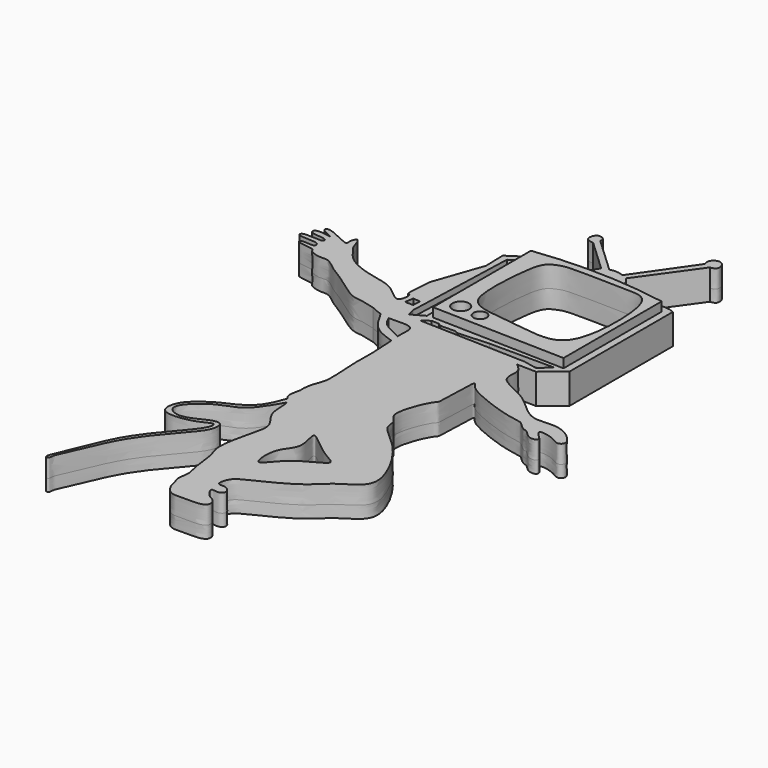
from build123d import *

# Parameters (mm, degrees)
F1_DEPTH = 2
F2_DEPTH = 2
F0_R     = 1.3638080713
F0_R_2   = 1.0885219465
F3_DEPTH = 3
F4_DEPTH = 3.5
F6_DEPTH = 1
F8_DEPTH = 10


with BuildPart() as f1:
    # F0 (on Top) → F1 (new body)
    with BuildSketch(Plane.XY):
        with BuildLine():
            add(Edge.make_bspline(
                [(-7.1354678192, 40.3565093875), (-7.2326651557, 42.2031832653), (-6.207177074, 43.8437295275), (-6.1452840422, 46.3712135886), (-6.5612317654, 52.1394806623), (-6.3160675766, 54.0724772888), (-6.5226867073, 57.2435823902), (-6.6151793179, 58.4987925402)],
                knots=[0, 0, 0, 0, 0.1191439816, 0.2162534794, 0.3620796658, 0.4619095428, 0.5675778495, 0.5675778495, 0.5675778495, 0.5675778495], degree=3))
            add(Edge.make_bspline(
                [(-6.9685436344, 37.4818611882), (-7.1212633751, 37.6680733087), (-7.6407128185, 38.3602584288), (-7.3095466353, 39.5094952422), (-7.1354678192, 40.3565093875)],
                knots=[0.9703624097, 0.9703624097, 0.9703624097, 0.9703624097, 0.9782686111, 1, 1, 1, 1], degree=3))
            add(Edge.make_bspline(
                [(-6.3658026047, 36.5832000971), (-6.5070253081, 36.9506717703), (-6.7520076757, 37.2178375601), (-6.9685436344, 37.4818611882)],
                knots=[0.9591524842, 0.9591524842, 0.9591524842, 0.9591524842, 0.9703624097, 0.9703624097, 0.9703624097, 0.9703624097], degree=3))
            add(Edge.make_bspline(
                [(25.3040157259, 49.1673052311), (25.3609576921, 48.9745445185), (25.5059619779, 48.4836740766), (23.8533953905, 48.2943731209), (22.8071007022, 49.8706098058), (22.1388532774, 49.6582198089), (20.8391300186, 51.0140374765), (20.380538297, 51.2078512124), (17.3739305236, 51.6174359876), (11.7960777898, 53.725265762), (9.7289768134, 55.0547233237), (8.810282643, 56.9827728013), (9.1353646448, 48.6192994646), (8.2807385739, 48.8303194826), (5.5798745158, 42.3963358142), (8.0602895936, 41.2343342379), (7.6320738321, 38.9344402064), (12.3435682454, 36.0066489429), (16.5116677586, 28.915642797), (16.5856670441, 24.8669218778), (12.2749156344, 22.8632612658), (9.9306130926, 19.7380132654), (3.3302178825, 16.6137942268), (1.1176657479, 15.4716956377), (0.6338871159, 12.9475452586), (2.2314935485, 13.5030828248), (3.5415030331, 12.1543768549), (2.3977932431, 11.2330050519), (0.7861434835, 11.9029481657), (2.0672435698, 9.7284147539), (3.4298972835, 9.4871243615), (3.9482767872, 7.2532681499), (-0.1472766878, 7.4394950211), (-2.4251364897, 7.2183975955), (-3.6344739914, 9.1574774669), (-3.63946591, 10.1831008699), (-4.3095546998, 11.1318107465), (-3.6708672887, 13.2777710958), (-4.4711650933, 15.1182044647), (-4.6748764284, 19.2665055362), (-5.8715366012, 21.1455197913), (-4.6510837453, 26.8551145985), (-3.596139614, 30.3316946749), (-6.536271853, 32.8270473337), (-6.0268914578, 35.7013288167), (-6.3658026047, 36.5832000971)],
                knots=[0, 0, 0, 0, 0.0103332096, 0.0263763728, 0.0451097148, 0.0561918676, 0.0749252097, 0.0851826715, 0.1091987082, 0.1451356838, 0.1682000267, 0.179736416, 0.2168474864, 0.2302762601, 0.2652096702, 0.285696439, 0.3043643433, 0.3369942067, 0.3784777882, 0.404839528, 0.4338208117, 0.4631249675, 0.5013825481, 0.5243902859, 0.5429475137, 0.5583715671, 0.575437612, 0.5901653974, 0.6047167699, 0.6230759582, 0.6404994932, 0.6569792016, 0.6836228951, 0.7057522493, 0.7256333863, 0.7399665668, 0.7545291595, 0.7748572465, 0.7956278148, 0.8240622854, 0.8455618465, 0.8795415356, 0.9061747589, 0.9322505159, 0.9591524842, 0.9591524842, 0.9591524842, 0.9591524842], degree=3))
            add(Edge.make_bspline(
                [(10.1986071095, 63.448973), (10.7440614624, 62.9947578896), (11.8867338951, 62.0432225644), (10.7619800337, 58.8191593509), (16.7600909002, 57.3360209152), (20.6577859364, 52.052906036), (25.5396012528, 53.9430952092), (29.4706051188, 50.4105178748), (27.9867565666, 49.1929561659), (26.8287715394, 50.3265000672), (23.4272030037, 50.994713023), (24.7122379356, 49.7435051536), (25.3040157259, 49.1673052311)],
                knots=[0, 0, 0, 0, 0.0830356038, 0.1739513029, 0.3094247435, 0.4545272246, 0.5810038485, 0.6999607928, 0.75789192, 0.8333860401, 0.9232717815, 1, 1, 1, 1], degree=3))
            Line((10.1986071095, 63.448973), (13.4022710845, 63.3885264397))
            Line((13.4022710845, 63.3885264397), (16.7271435208, 66.1085098982))
            Line((16.7271435208, 66.1085098982), (16.7271435208, 87.4748796777))
            Line((16.7271435208, 87.4748796777), (16.4150890336, 87.5852475486))
            Line((16.4150890336, 87.5852475486), (15.9320067614, 87.7561047673))
            Line((15.9320067614, 87.7561047673), (7.188806776, 88.568277657))
            ThreePointArc((7.188806776, 88.568277657), (6.9193838363, 89.8922672052), (6.1213923618, 90.9825637937))
            Line((6.1213923618, 90.9825637937), (12.6783652231, 100.1568734646))
            add(Edge.make_bspline(
                [(11.5601215512, 100.4872471094), (11.48014233, 100.8688994676), (11.3171480681, 101.6466907931), (12.5713477942, 102.4909716283), (13.684924326, 101.6989082025), (13.7480972307, 100.3065166439), (13.0248926891, 100.2053486634), (12.6783652231, 100.1568734646)],
                knots=[0, 0, 0, 0, 0.2005336264, 0.4086790287, 0.6149316071, 0.8154923445, 1, 1, 1, 1], degree=3))
            Line((11.5601215512, 100.4872471094), (5.2373982035, 91.422393918))
            ThreePointArc((5.2373982035, 91.422393918), (4.0985405405, 91.6980925857), (2.9325550422, 91.5819704533))
            Line((2.9325550422, 91.5819704533), (-2.9739309102, 97.1082821488))
            add(Edge.make_bspline(
                [(-3.3629485406, 96.1196795106), (-3.8358157073, 96.1953040771), (-4.7058936761, 96.3344536603), (-4.7244038955, 97.4098667937), (-4.1555150968, 98.3660640115), (-2.8978749824, 97.8576245685), (-2.9504806386, 97.3393263792), (-2.9739309102, 97.1082821488)],
                knots=[0, 0, 0, 0, 0.2295074393, 0.4222948446, 0.6220007171, 0.8314974754, 1, 1, 1, 1], degree=3))
            Line((-3.3629485406, 96.1196795106), (1.9245042931, 91.1694616079))
            ThreePointArc((1.9245042931, 91.1694616079), (1.1858495698, 90.0207150438), (0.6810335908, 88.7517035007))
            Line((0.6810335908, 88.7517035007), (-6.8488726392, 88.2681459188))
            Line((-6.8488726392, 88.2681459188), (-10.2364453664, 86.0479101539))
            Line((-10.2364453664, 86.0479101539), (-10.1647945121, 82.4655219913))
            Line((-10.1647945121, 82.4655219913), (-12.9481125623, 74.4450315833))
            add(Edge.make_bspline(
                [(-14.2605666477, 64.2533394543), (-14.9865522271, 64.451758474), (-16.4119143709, 64.8790642733), (-18.3340661508, 64.8663797901), (-21.0434883518, 66.9247370343), (-24.2661649787, 69.1154275388), (-25.1425717999, 69.5053961459), (-27.0200491125, 71.2775724819), (-28.4915032804, 70.8128227576), (-30.4857333585, 71.5701095641), (-30.2508720115, 72.3320480191), (-33.2618646159, 72.2757214421), (-33.3783611299, 73.331487493), (-30.6565192277, 72.6519054345), (-31.0024898971, 73.8077745833), (-31.8834594908, 73.9649073074), (-33.4853400668, 73.9085032925), (-34.5853324214, 74.1950971851), (-34.2264228775, 75.0879957674), (-30.7626916246, 74.3965018175), (-30.8525498254, 75.302568909), (-31.8260032134, 75.5065607616), (-33.1685986357, 75.481752421), (-33.8730092521, 76.0437144184), (-33.1944156667, 76.8402265077), (-29.2492633584, 75.7774635286), (-33.1912449723, 77.0983473882), (-32.1837970821, 78.2875806699), (-27.7292252932, 75.3997559768), (-28.3305100978, 76.9818210995), (-27.4897856338, 78.5062213237), (-26.8597894898, 75.6544216169), (-26.2846618725, 75.3410060065), (-24.8886265799, 72.8130535965), (-20.5598027943, 71.1887764812), (-17.3819872633, 70.7182436683), (-15.3844301741, 69.7043830634), (-12.8106192135, 67.0303629163), (-12.5726996025, 70.271923142), (-13.4961332763, 69.6218248348), (-13.0466145476, 72.3931297854), (-12.9481125623, 74.4450315833)],
                knots=[0, 0, 0, 0, 0.0299589513, 0.0569766283, 0.0944710002, 0.1337486105, 0.1543802008, 0.1846496904, 0.2100456975, 0.2371140122, 0.2505479126, 0.2833158509, 0.2957677115, 0.3253738504, 0.3405912309, 0.3591070734, 0.3854981966, 0.4047213959, 0.4188036751, 0.4546149563, 0.4669767709, 0.486201145, 0.5101929139, 0.526349211, 0.5439444761, 0.5744083318, 0.6039274995, 0.6194372608, 0.661154672, 0.6791068357, 0.6986660357, 0.7277097252, 0.7452139492, 0.777271531, 0.8207484167, 0.8565814782, 0.8882959612, 0.9198251242, 0.9468596506, 0.957594606, 1, 1, 1, 1], degree=3))
            add(Edge.make_bspline(
                [(-12.3769794611, 63.4897958143), (-13.0615525556, 63.690915776), (-13.6710194675, 63.9727386191), (-14.2605666477, 64.2533394543)],
                knots=[0.9304450657, 0.9304450657, 0.9304450657, 0.9304450657, 1, 1, 1, 1], degree=3))
            add(Edge.make_bspline(
                [(-10.8479263552, 63.2165074348), (-11.4046012158, 63.2522736663), (-11.908385732, 63.3521281881), (-12.3769794611, 63.4897958143)],
                knots=[0.8828343631, 0.8828343631, 0.8828343631, 0.8828343631, 0.9304450657, 0.9304450657, 0.9304450657, 0.9304450657], degree=3))
            add(Edge.make_bspline(
                [(-6.7271584598, 59.9556802077), (-6.758093276, 60.3743703174), (-6.7853407735, 61.0609076764), (-6.447667219, 63.6754149953), (-9.4291694551, 63.1253526312), (-10.8479263552, 63.2165074348)],
                knots=[0.6182937459, 0.6182937459, 0.6182937459, 0.6182937459, 0.6775458153, 0.7614924135, 0.8828343631, 0.8828343631, 0.8828343631, 0.8828343631], degree=3))
            add(Edge.make_bspline(
                [(-6.6151793179, 58.4987925402), (-6.6445948475, 58.8979884438), (-6.6868878971, 59.4431316527), (-6.7182254833, 59.8347760167), (-6.7271584598, 59.9556802077)],
                knots=[0.5675778495, 0.5675778495, 0.5675778495, 0.5675778495, 0.6011836606, 0.6182937459, 0.6182937459, 0.6182937459, 0.6182937459], degree=3))
        make_face()
        with BuildLine():
            add(Edge.make_bspline(
                [(2.1333068144, 31.5710268915), (1.8601590976, 31.3249397561), (3.4297521684, 27.7089326769), (0.3634039255, 25.8852535661), (0.825080259, 19.4123571053), (3.6417890512, 24.824167884), (10.1735444777, 26.9063551074), (5.8483644787, 28.3460742265), (2.4674656551, 31.8720808151), (2.1333068144, 31.5710268915)],
                knots=[0, 0, 0, 0, 0.1296428059, 0.2658821268, 0.4069244104, 0.5512580148, 0.7160433502, 0.8413997736, 1, 1, 1, 1], degree=3))
        make_face(mode=Mode.SUBTRACT)
        Polygon((-9.7131496295, 66.6867271066), (-9.0662045404, 85.4704752564), (-7.6858009005, 86.3752001962), (-7.3680519126, 66.9293254614), (-9.0662268922, 65.4737427831), align=None, mode=Mode.SUBTRACT)
        Polygon((-7.2265272029, 64.9654567242), (-7.2265272029, 65.3394535184), (-6.2065357342, 66.0534501076), (14.6012967452, 65.7474547625), (12.6633131877, 64.2514675856), (10.5553297326, 64.6594613791), align=None, mode=Mode.SUBTRACT)
        with BuildLine():
            Line((-6.4580081962, 66.9144955416), (-6.4580081962, 87.1356204152))
            ThreePointArc((-6.4580081962, 87.1356204152), (4.573080881, 87.7039632176), (15.5639490113, 86.6045281291))
            Line((15.5639490113, 86.6045281291), (15.5639490113, 66.3375002285))
            Line((15.5639490113, 66.3375002285), (-6.4580081962, 66.9144955416))
        make_face(mode=Mode.SUBTRACT)
        with BuildLine():
            add(Edge.make_bspline(
                [(-6.3658026047, 36.5832000971), (-6.5070253081, 36.9506717703), (-6.7520076757, 37.2178375601), (-6.9685436344, 37.4818611882)],
                knots=[0.9591524842, 0.9591524842, 0.9591524842, 0.9591524842, 0.9703624097, 0.9703624097, 0.9703624097, 0.9703624097], degree=3))
            add(Edge.make_bspline(
                [(-6.9685436344, 37.4818611882), (-7.4879949094, 36.0783960903), (-8.483570531, 33.3778693203), (-12.1752136406, 31.5504446991), (-13.6172363166, 30.9994701765), (-16.4428727736, 28.9958177929), (-17.6547252153, 27.1399137959), (-17.750607965, 24.2726564236), (-13.0850650111, 24.6651766422), (-11.0440523799, 25.6776800708), (-9.8141754357, 26.2607495555), (-9.7869387701, 24.7570527801), (-12.2173596629, 21.8980688384), (-15.0315944775, 18.6031648664), (-17.7848478815, 14.5635904677), (-19.9789662039, 8.3689057653), (-21.5961644368, 5.2464901611), (-20.5737769145, 5.2122141216), (-20.720203959, 6.2315772784), (-19.3532902042, 8.696322321), (-17.4725153431, 13.6816726987), (-14.4932457177, 18.5282789982), (-9.8032265107, 23.4224230404), (-9.0087307354, 25.4444452221), (-9.3000769163, 26.8899070482), (-11.0287140926, 26.669291339), (-13.1885870432, 25.3435334608), (-15.5396898007, 24.8804001235), (-17.2250442497, 26.1420773164), (-16.5237609474, 27.9970759594), (-13.3198395093, 30.7710051545), (-9.1974637336, 31.5606591127), (-7.3672088266, 34.9010455488), (-6.3658026047, 36.5832000971)],
                knots=[0, 0, 0, 0, 0.0398906398, 0.0768584227, 0.1013994667, 0.1360462813, 0.1651779027, 0.1919926393, 0.2298186674, 0.2605500208, 0.2786614276, 0.2969422394, 0.3337831584, 0.3741005332, 0.4165025528, 0.4672959121, 0.4988288231, 0.5110089482, 0.527507348, 0.5590106806, 0.6031698341, 0.6502412643, 0.6995620914, 0.7269182515, 0.7466028592, 0.7690631693, 0.8001939946, 0.8293101846, 0.8537938891, 0.8779596556, 0.9166743613, 0.9550465639, 1, 1, 1, 1], degree=3))
        make_face()
        with BuildLine():
            add(Edge.make_bspline(
                [(-12.3769794611, 63.4897958143), (-11.6959048904, 62.2526289736), (-10.3919453536, 59.7594154968), (-7.8201881153, 58.9277902445), (-6.6151793179, 58.4987925402)],
                knots=[0, 0, 0, 0, 0.508850583, 1, 1, 1, 1], degree=3))
            add(Edge.make_bspline(
                [(-6.6151793179, 58.4987925402), (-6.6445948475, 58.8979884438), (-6.6868878971, 59.4431316527), (-6.7182254833, 59.8347760167), (-6.7271584598, 59.9556802077)],
                knots=[0.5675778495, 0.5675778495, 0.5675778495, 0.5675778495, 0.6011836606, 0.6182937459, 0.6182937459, 0.6182937459, 0.6182937459], degree=3))
            add(Edge.make_bspline(
                [(-10.8479263552, 63.2165074348), (-10.5756118967, 62.6966378039), (-10.0685220281, 61.4013735602), (-7.9101399543, 60.5069513059), (-6.7271584598, 59.9556802077)],
                knots=[0, 0, 0, 0, 0.415536744, 1, 1, 1, 1], degree=3))
            add(Edge.make_bspline(
                [(-10.8479263552, 63.2165074348), (-11.4046012158, 63.2522736663), (-11.908385732, 63.3521281881), (-12.3769794611, 63.4897958143)],
                knots=[0.8828343631, 0.8828343631, 0.8828343631, 0.8828343631, 0.9304450657, 0.9304450657, 0.9304450657, 0.9304450657], degree=3))
        make_face()
    extrude(amount=F1_DEPTH)

    # F0 (on Top) → F2 (join)
    with BuildSketch(Plane.XY):
        Polygon((-7.6858009005, 86.3752001962), (-9.0662045404, 85.4704752564), (-9.7131496295, 66.6867271066), (-9.0662268922, 65.4737427831), (-7.3680519126, 66.9293254614), align=None)
        Polygon((-6.2065357342, 66.0534501076), (-7.2265272029, 65.3394535184), (-7.2265272029, 64.9654567242), (10.5553297326, 64.6594613791), (12.6633131877, 64.2514675856), (14.6012967452, 65.7474547625), align=None)
    extrude(amount=F2_DEPTH)

    # F0 (on Top) + F2_face (on face) → F3 (join)
    with BuildSketch(Plane.XY):
        with BuildLine():
            add(Edge.make_bspline(
                [(-12.3769794611, 63.4897958143), (-11.6959048904, 62.2526289736), (-10.3919453536, 59.7594154968), (-7.8201881153, 58.9277902445), (-6.6151793179, 58.4987925402)],
                knots=[0, 0, 0, 0, 0.508850583, 1, 1, 1, 1], degree=3))
            add(Edge.make_bspline(
                [(-6.6151793179, 58.4987925402), (-6.6445948475, 58.8979884438), (-6.6868878971, 59.4431316527), (-6.7182254833, 59.8347760167), (-6.7271584598, 59.9556802077)],
                knots=[0.5675778495, 0.5675778495, 0.5675778495, 0.5675778495, 0.6011836606, 0.6182937459, 0.6182937459, 0.6182937459, 0.6182937459], degree=3))
            add(Edge.make_bspline(
                [(-10.8479263552, 63.2165074348), (-10.5756118967, 62.6966378039), (-10.0685220281, 61.4013735602), (-7.9101399543, 60.5069513059), (-6.7271584598, 59.9556802077)],
                knots=[0, 0, 0, 0, 0.415536744, 1, 1, 1, 1], degree=3))
            add(Edge.make_bspline(
                [(-10.8479263552, 63.2165074348), (-11.4046012158, 63.2522736663), (-11.908385732, 63.3521281881), (-12.3769794611, 63.4897958143)],
                knots=[0.8828343631, 0.8828343631, 0.8828343631, 0.8828343631, 0.9304450657, 0.9304450657, 0.9304450657, 0.9304450657], degree=3))
        make_face()
        with BuildLine():
            ThreePointArc((15.5639490113, 86.6045281291), (4.573080881, 87.7039632176), (-6.4580081962, 87.1356204152))
            Line((-6.4580081962, 87.1356204152), (-6.4580081962, 66.9144955416))
            Line((-6.4580081962, 66.9144955416), (15.5639490113, 66.3375002285))
            Line((15.5639490113, 66.3375002285), (15.5639490113, 86.6045281291))
        make_face()
        with Locations((-3.8201515563, 69.3349093199)):
            Circle(F0_R, mode=Mode.SUBTRACT)
        with Locations((-0.3101018083, 68.9502507448)):
            Circle(F0_R_2, mode=Mode.SUBTRACT)
        with BuildLine():
            add(Edge.make_bspline(
                [(-1.368422294, 86.0479101539), (-1.7813839712, 85.8785232122), (-3.1075507426, 85.3484821177), (-3.7945578608, 80.473165514), (-4.0526036494, 74.2300510306), (-2.8126520791, 70.4226246602), (4.2848124487, 70.0657575883), (9.815249106, 68.9209217604), (14.7457336565, 70.5746417701), (14.8900261556, 83.6196681984), (12.5989850834, 86.4490232535), (9.3003518982, 86.1974192277), (0.2518095533, 86.7309829684), (-0.935336278, 86.225551615), (-1.368422294, 86.0479101539)],
                knots=[0, 0, 0, 0, 0.0472643361, 0.1300522599, 0.228325065, 0.2975963222, 0.395624839, 0.4884919281, 0.5658916777, 0.6993234786, 0.7662390134, 0.8352611822, 0.9504323909, 1, 1, 1, 1], degree=3))
        make_face(mode=Mode.SUBTRACT)
    with BuildSketch(Plane(origin=(0.2947342726, 48.6033618766, 2), x_dir=(1, 0, 0), z_dir=(0, 0, 1))):
        with BuildLine():
            add(Edge.make_bspline(
                [(-7.263277907, -11.1215006884), (-7.4159976478, -10.9352885679), (-7.9354470911, -10.2431034478), (-7.6042809079, -9.0938666344), (-7.4302020919, -8.2468524891)],
                knots=[0.9703624097, 0.9703624097, 0.9703624097, 0.9703624097, 0.9782686111, 1, 1, 1, 1], degree=3))
            add(Edge.make_bspline(
                [(-7.263277907, -11.1215006884), (-7.782729182, -12.5249657863), (-8.7783048037, -15.2254925563), (-12.4699479132, -17.0529171775), (-13.9119705893, -17.6038917001), (-16.7376070463, -19.6075440837), (-17.949459488, -21.4634480808), (-18.0453422377, -24.330705453), (-13.3797992837, -23.9381852344), (-11.3387866526, -22.9256818058), (-10.1089097084, -22.3426123211), (-10.0816730427, -23.8463090965), (-12.5120939355, -26.7052930382), (-15.3263287502, -30.0001970102), (-18.0795821542, -34.0397714089), (-20.2737004766, -40.2344561113), (-21.8908987094, -43.3568717155), (-20.8685111872, -43.391147755), (-21.0149382317, -42.3717845982), (-19.6480244769, -39.9070395556), (-17.7672496157, -34.9216891779), (-14.7879799903, -30.0750828784), (-10.0979607833, -25.1809388362), (-9.303465008, -23.1589166545), (-9.5948111889, -21.7134548284), (-11.3234483652, -21.9340705376), (-13.4833213159, -23.2598284158), (-15.8344240734, -23.7229617531), (-17.5197785223, -22.4612845602), (-16.81849522, -20.6062859172), (-13.6145737819, -17.8323567221), (-9.4921980063, -17.0427027639), (-7.6619430993, -13.7023163278), (-6.6605368773, -12.0201617795)],
                knots=[0, 0, 0, 0, 0.0398906398, 0.0768584227, 0.1013994667, 0.1360462813, 0.1651779027, 0.1919926393, 0.2298186674, 0.2605500208, 0.2786614276, 0.2969422394, 0.3337831584, 0.3741005332, 0.4165025528, 0.4672959121, 0.4988288231, 0.5110089482, 0.527507348, 0.5590106806, 0.6031698341, 0.6502412643, 0.6995620914, 0.7269182515, 0.7466028592, 0.7690631693, 0.8001939946, 0.8293101846, 0.8537938891, 0.8779596556, 0.9166743613, 0.9550465639, 1, 1, 1, 1], degree=3))
            add(Edge.make_bspline(
                [(25.0092814532, 0.5639433545), (25.0662234194, 0.3711826419), (25.2112277052, -0.1196878), (23.5586611179, -0.3089887558), (22.5123664296, 1.2672479292), (21.8441190047, 1.0548579323), (20.544395746, 2.4106755999), (20.0858040244, 2.6044893358), (17.0791962509, 3.014074111), (11.5013435172, 5.1219038854), (9.4342425407, 6.4513614471), (8.5155483704, 8.3794109247), (8.8406303722, 0.015937588), (7.9860043012, 0.226957606), (5.2851402431, -6.2070260624), (7.765555321, -7.3690276387), (7.3373395594, -9.6689216702), (12.0488339727, -12.5967129337), (16.216933486, -19.6877190796), (16.2909327715, -23.7364399988), (11.9801813618, -25.7401006108), (9.6358788199, -28.8653486112), (3.0354836098, -31.9895676498), (0.8229314753, -33.1316662389), (0.3391528433, -35.655816618), (1.9367592759, -35.1002790518), (3.2467687605, -36.4489850217), (2.1030589705, -37.3703568247), (0.4914092108, -36.7004137109), (1.7725092972, -38.8749471227), (3.1351630109, -39.1162375151), (3.6535425146, -41.3500937267), (-0.4420109605, -41.1638668555), (-2.7198707624, -41.3849642811), (-3.929208264, -39.4458844097), (-3.9342001826, -38.4202610067), (-4.6042889725, -37.4715511301), (-3.9656015614, -35.3255907808), (-4.7658993659, -33.4851574119), (-4.969610701, -29.3368563404), (-6.1662708738, -27.4578420853), (-4.9458180179, -21.7482472781), (-3.8908738867, -18.2716672017), (-6.8310061256, -15.7763145429), (-6.3216257305, -12.9020330599), (-6.6605368773, -12.0201617795)],
                knots=[0, 0, 0, 0, 0.0103332096, 0.0263763728, 0.0451097148, 0.0561918676, 0.0749252097, 0.0851826715, 0.1091987082, 0.1451356838, 0.1682000267, 0.179736416, 0.2168474864, 0.2302762601, 0.2652096702, 0.285696439, 0.3043643433, 0.3369942067, 0.3784777882, 0.404839528, 0.4338208117, 0.4631249675, 0.5013825481, 0.5243902859, 0.5429475137, 0.5583715671, 0.575437612, 0.5901653974, 0.6047167699, 0.6230759582, 0.6404994932, 0.6569792016, 0.6836228951, 0.7057522493, 0.7256333863, 0.7399665668, 0.7545291595, 0.7748572465, 0.7956278148, 0.8240622854, 0.8455618465, 0.8795415356, 0.9061747589, 0.9322505159, 0.9591524842, 0.9591524842, 0.9591524842, 0.9591524842], degree=3))
            add(Edge.make_bspline(
                [(9.9038728368, 14.8456111234), (10.4493271898, 14.391396013), (11.5919996225, 13.4398606878), (10.4672457611, 10.2157974743), (16.4653566275, 8.7326590386), (20.3630516637, 3.4495441594), (25.2448669802, 5.3397333326), (29.1758708462, 1.8071559982), (27.6920222939, 0.5895942893), (26.5340372667, 1.7231381906), (23.1324687311, 2.3913511464), (24.4175036629, 1.140143277), (25.0092814532, 0.5639433545)],
                knots=[0, 0, 0, 0, 0.0830356038, 0.1739513029, 0.3094247435, 0.4545272246, 0.5810038485, 0.6999607928, 0.75789192, 0.8333860401, 0.9232717815, 1, 1, 1, 1], degree=3))
            Line((9.9038728368, 14.8456111234), (13.1075368119, 14.7851645631))
            Line((13.1075368119, 14.7851645631), (16.4324092482, 17.5051480216))
            Line((16.4324092482, 17.5051480216), (16.4324092482, 38.8715178011))
            Line((16.4324092482, 38.8715178011), (15.6372724888, 39.1527428907))
            Line((15.6372724888, 39.1527428907), (6.8940725033, 39.9649157804))
            ThreePointArc((6.8940725033, 39.9649157804), (6.6246495637, 41.2889053286), (5.8266580892, 42.3792019171))
            Line((5.8266580892, 42.3792019171), (12.3836309505, 51.553511588))
            add(Edge.make_bspline(
                [(11.2653872785, 51.8838852328), (11.1854080574, 52.265537591), (11.0224137955, 53.0433289165), (12.2766135216, 53.8876097517), (13.3901900534, 53.0955463259), (13.4533629581, 51.7031547673), (12.7301584165, 51.6019867868), (12.3836309505, 51.553511588)],
                knots=[0, 0, 0, 0, 0.2005336264, 0.4086790287, 0.6149316071, 0.8154923445, 1, 1, 1, 1], degree=3))
            Line((11.2653872785, 51.8838852328), (4.9426639308, 42.8190320414))
            ThreePointArc((4.9426639308, 42.8190320414), (3.8038062679, 43.0947307091), (2.6378207696, 42.9786085767))
            Line((2.6378207696, 42.9786085767), (-3.2686651829, 48.5049202722))
            add(Edge.make_bspline(
                [(-3.6576828132, 47.516317634), (-4.1305499799, 47.5919422005), (-5.0006279487, 47.7310917837), (-5.0191381681, 48.8065049171), (-4.4502493694, 49.7627021349), (-3.1926092551, 49.2542626919), (-3.2452149112, 48.7359645026), (-3.2686651829, 48.5049202722)],
                knots=[0, 0, 0, 0, 0.2295074393, 0.4222948446, 0.6220007171, 0.8314974754, 1, 1, 1, 1], degree=3))
            Line((-3.6576828132, 47.516317634), (1.6297700205, 42.5660997313))
            ThreePointArc((1.6297700205, 42.5660997313), (0.8911152971, 41.4173531672), (0.3862993182, 40.1483416241))
            Line((0.3862993182, 40.1483416241), (-7.1436069119, 39.6647840422))
            Line((-7.1436069119, 39.6647840422), (-10.531179639, 37.4445482773))
            Line((-10.531179639, 37.4445482773), (-10.4595287847, 33.8621601147))
            Line((-10.4595287847, 33.8621601147), (-13.2428468349, 25.8416697067))
            add(Edge.make_bspline(
                [(-14.5553009204, 15.6499775777), (-15.2812864998, 15.8483965974), (-16.7066486435, 16.2757023967), (-18.6288004234, 16.2630179135), (-21.3382226244, 18.3213751577), (-24.5608992513, 20.5120656622), (-25.4373060725, 20.9020342693), (-27.3147833851, 22.6742106053), (-28.7862375531, 22.209460881), (-30.7804676311, 22.9667476875), (-30.5456062842, 23.7286861425), (-33.5565988885, 23.6723595655), (-33.6730954025, 24.7281256164), (-30.9512535004, 24.0485435579), (-31.2972241697, 25.2044127067), (-32.1781937634, 25.3615454308), (-33.7800743394, 25.3051414159), (-34.880066694, 25.5917353085), (-34.5211571502, 26.4846338908), (-31.0574258973, 25.7931399409), (-31.1472840981, 26.6992070323), (-32.120737486, 26.903198885), (-33.4633329084, 26.8783905444), (-34.1677435248, 27.4403525418), (-33.4891499393, 28.2368646311), (-29.5439976311, 27.174101652), (-33.485979245, 28.4949855116), (-32.4785313547, 29.6842187933), (-28.0239595658, 26.7963941002), (-28.6252443705, 28.3784592229), (-27.7845199064, 29.9028594471), (-27.1545237624, 27.0510597403), (-26.5793961451, 26.7376441299), (-25.1833608525, 24.2096917199), (-20.8545370669, 22.5854146046), (-17.6767215359, 22.1148817917), (-15.6791644467, 21.1010211868), (-13.1053534862, 18.4270010397), (-12.8674338751, 21.6685612654), (-13.7908675489, 21.0184629582), (-13.3413488203, 23.7897679088), (-13.2428468349, 25.8416697067)],
                knots=[0, 0, 0, 0, 0.0299589513, 0.0569766283, 0.0944710002, 0.1337486105, 0.1543802008, 0.1846496904, 0.2100456975, 0.2371140122, 0.2505479126, 0.2833158509, 0.2957677115, 0.3253738504, 0.3405912309, 0.3591070734, 0.3854981966, 0.4047213959, 0.4188036751, 0.4546149563, 0.4669767709, 0.486201145, 0.5101929139, 0.526349211, 0.5439444761, 0.5744083318, 0.6039274995, 0.6194372608, 0.661154672, 0.6791068357, 0.6986660357, 0.7277097252, 0.7452139492, 0.777271531, 0.8207484167, 0.8565814782, 0.8882959612, 0.9198251242, 0.9468596506, 0.957594606, 1, 1, 1, 1], degree=3))
            add(Edge.make_bspline(
                [(-14.5553009204, 15.6499775777), (-13.9657537401, 15.3693767425), (-13.3562868282, 15.0875538994), (-12.6717137337, 14.8864339377)],
                knots=[0.9304450657, 0.9304450657, 0.9304450657, 0.9304450657, 1, 1, 1, 1], degree=3))
            add(Edge.make_bspline(
                [(-12.6717137337, 14.8864339377), (-11.990639163, 13.649267097), (-10.6866796262, 11.1560536202), (-8.1149223879, 10.3244283679), (-6.9099135906, 9.8954306636)],
                knots=[0, 0, 0, 0, 0.508850583, 1, 1, 1, 1], degree=3))
            add(Edge.make_bspline(
                [(-6.9099135906, 9.8954306636), (-6.81742098, 8.6402205136), (-6.6108018493, 5.4691154122), (-6.855966038, 3.5361187857), (-6.4400183149, -2.232148288), (-6.5019113466, -4.7596323491), (-7.5273994283, -6.4001786113), (-7.4302020919, -8.2468524891)],
                knots=[1.3628672162, 1.3628672162, 1.3628672162, 1.3628672162, 1.4685355229, 1.5683653999, 1.7141915863, 1.8113010842, 1.9304450657, 1.9304450657, 1.9304450657, 1.9304450657], degree=3))
        make_face()
        with BuildLine():
            add(Edge.make_bspline(
                [(-11.1426606279, 14.6131455582), (-9.7239037278, 14.5219907546), (-6.7424014916, 15.0720531187), (-7.0800750461, 12.4575457998), (-7.0528275486, 11.7710084408), (-7.0218927325, 11.3523183311)],
                knots=[1.0476107026, 1.0476107026, 1.0476107026, 1.0476107026, 1.1689526522, 1.2528992504, 1.3121513198, 1.3121513198, 1.3121513198, 1.3121513198], degree=3))
            add(Edge.make_bspline(
                [(-11.1426606279, 14.6131455582), (-10.8703461693, 14.0932759273), (-10.3632563008, 12.7980116836), (-8.2048742269, 11.9035894293), (-7.0218927325, 11.3523183311)],
                knots=[0, 0, 0, 0, 0.415536744, 1, 1, 1, 1], degree=3))
        make_face(mode=Mode.SUBTRACT)
        with BuildLine():
            add(Edge.make_bspline(
                [(1.8385725417, -17.0323349851), (1.5654248249, -17.2784221205), (3.1350178958, -20.8944291997), (0.0686696528, -22.7181083105), (0.5303459864, -29.1910047713), (3.3470547786, -23.7791939926), (9.8788102051, -21.6970067692), (5.553630206, -20.2572876501), (2.1727313825, -16.7312810615), (1.8385725417, -17.0323349851)],
                knots=[0, 0, 0, 0, 0.1296428059, 0.2658821268, 0.4069244104, 0.5512580148, 0.7160433502, 0.8413997736, 1, 1, 1, 1], degree=3))
        make_face(mode=Mode.SUBTRACT)
        with BuildLine():
            ThreePointArc((-6.7527424688, 38.5322585386), (4.2783466084, 39.100601341), (15.2692147386, 38.0011662525))
            Line((15.2692147386, 38.0011662525), (15.2692147386, 17.7341383519))
            Line((15.2692147386, 17.7341383519), (-6.7527424688, 18.311133665))
            Line((-6.7527424688, 18.311133665), (-6.7527424688, 38.5322585386))
        make_face(mode=Mode.SUBTRACT)
        with BuildLine():
            add(Edge.make_bspline(
                [(-7.263277907, -11.1215006884), (-7.4159976478, -10.9352885679), (-7.9354470911, -10.2431034478), (-7.6042809079, -9.0938666344), (-7.4302020919, -8.2468524891)],
                knots=[0.9703624097, 0.9703624097, 0.9703624097, 0.9703624097, 0.9782686111, 1, 1, 1, 1], degree=3))
            add(Edge.make_bspline(
                [(-7.263277907, -11.1215006884), (-7.782729182, -12.5249657863), (-8.7783048037, -15.2254925563), (-12.4699479132, -17.0529171775), (-13.9119705893, -17.6038917001), (-16.7376070463, -19.6075440837), (-17.949459488, -21.4634480808), (-18.0453422377, -24.330705453), (-13.3797992837, -23.9381852344), (-11.3387866526, -22.9256818058), (-10.1089097084, -22.3426123211), (-10.0816730427, -23.8463090965), (-12.5120939355, -26.7052930382), (-15.3263287502, -30.0001970102), (-18.0795821542, -34.0397714089), (-20.2737004766, -40.2344561113), (-21.8908987094, -43.3568717155), (-20.8685111872, -43.391147755), (-21.0149382317, -42.3717845982), (-19.6480244769, -39.9070395556), (-17.7672496157, -34.9216891779), (-14.7879799903, -30.0750828784), (-10.0979607833, -25.1809388362), (-9.303465008, -23.1589166545), (-9.5948111889, -21.7134548284), (-11.3234483652, -21.9340705376), (-13.4833213159, -23.2598284158), (-15.8344240734, -23.7229617531), (-17.5197785223, -22.4612845602), (-16.81849522, -20.6062859172), (-13.6145737819, -17.8323567221), (-9.4921980063, -17.0427027639), (-7.6619430993, -13.7023163278), (-6.6605368773, -12.0201617795)],
                knots=[0, 0, 0, 0, 0.0398906398, 0.0768584227, 0.1013994667, 0.1360462813, 0.1651779027, 0.1919926393, 0.2298186674, 0.2605500208, 0.2786614276, 0.2969422394, 0.3337831584, 0.3741005332, 0.4165025528, 0.4672959121, 0.4988288231, 0.5110089482, 0.527507348, 0.5590106806, 0.6031698341, 0.6502412643, 0.6995620914, 0.7269182515, 0.7466028592, 0.7690631693, 0.8001939946, 0.8293101846, 0.8537938891, 0.8779596556, 0.9166743613, 0.9550465639, 1, 1, 1, 1], degree=3))
            add(Edge.make_bspline(
                [(25.0092814532, 0.5639433545), (25.0662234194, 0.3711826419), (25.2112277052, -0.1196878), (23.5586611179, -0.3089887558), (22.5123664296, 1.2672479292), (21.8441190047, 1.0548579323), (20.544395746, 2.4106755999), (20.0858040244, 2.6044893358), (17.0791962509, 3.014074111), (11.5013435172, 5.1219038854), (9.4342425407, 6.4513614471), (8.5155483704, 8.3794109247), (8.8406303722, 0.015937588), (7.9860043012, 0.226957606), (5.2851402431, -6.2070260624), (7.765555321, -7.3690276387), (7.3373395594, -9.6689216702), (12.0488339727, -12.5967129337), (16.216933486, -19.6877190796), (16.2909327715, -23.7364399988), (11.9801813618, -25.7401006108), (9.6358788199, -28.8653486112), (3.0354836098, -31.9895676498), (0.8229314753, -33.1316662389), (0.3391528433, -35.655816618), (1.9367592759, -35.1002790518), (3.2467687605, -36.4489850217), (2.1030589705, -37.3703568247), (0.4914092108, -36.7004137109), (1.7725092972, -38.8749471227), (3.1351630109, -39.1162375151), (3.6535425146, -41.3500937267), (-0.4420109605, -41.1638668555), (-2.7198707624, -41.3849642811), (-3.929208264, -39.4458844097), (-3.9342001826, -38.4202610067), (-4.6042889725, -37.4715511301), (-3.9656015614, -35.3255907808), (-4.7658993659, -33.4851574119), (-4.969610701, -29.3368563404), (-6.1662708738, -27.4578420853), (-4.9458180179, -21.7482472781), (-3.8908738867, -18.2716672017), (-6.8310061256, -15.7763145429), (-6.3216257305, -12.9020330599), (-6.6605368773, -12.0201617795)],
                knots=[0, 0, 0, 0, 0.0103332096, 0.0263763728, 0.0451097148, 0.0561918676, 0.0749252097, 0.0851826715, 0.1091987082, 0.1451356838, 0.1682000267, 0.179736416, 0.2168474864, 0.2302762601, 0.2652096702, 0.285696439, 0.3043643433, 0.3369942067, 0.3784777882, 0.404839528, 0.4338208117, 0.4631249675, 0.5013825481, 0.5243902859, 0.5429475137, 0.5583715671, 0.575437612, 0.5901653974, 0.6047167699, 0.6230759582, 0.6404994932, 0.6569792016, 0.6836228951, 0.7057522493, 0.7256333863, 0.7399665668, 0.7545291595, 0.7748572465, 0.7956278148, 0.8240622854, 0.8455618465, 0.8795415356, 0.9061747589, 0.9322505159, 0.9591524842, 0.9591524842, 0.9591524842, 0.9591524842], degree=3))
            add(Edge.make_bspline(
                [(9.9038728368, 14.8456111234), (10.4493271898, 14.391396013), (11.5919996225, 13.4398606878), (10.4672457611, 10.2157974743), (16.4653566275, 8.7326590386), (20.3630516637, 3.4495441594), (25.2448669802, 5.3397333326), (29.1758708462, 1.8071559982), (27.6920222939, 0.5895942893), (26.5340372667, 1.7231381906), (23.1324687311, 2.3913511464), (24.4175036629, 1.140143277), (25.0092814532, 0.5639433545)],
                knots=[0, 0, 0, 0, 0.0830356038, 0.1739513029, 0.3094247435, 0.4545272246, 0.5810038485, 0.6999607928, 0.75789192, 0.8333860401, 0.9232717815, 1, 1, 1, 1], degree=3))
            Line((9.9038728368, 14.8456111234), (13.1075368119, 14.7851645631))
            Line((13.1075368119, 14.7851645631), (16.4324092482, 17.5051480216))
            Line((16.4324092482, 17.5051480216), (16.4324092482, 38.8715178011))
            Line((16.4324092482, 38.8715178011), (15.6372724888, 39.1527428907))
            Line((15.6372724888, 39.1527428907), (6.8940725033, 39.9649157804))
            ThreePointArc((6.8940725033, 39.9649157804), (6.6246495637, 41.2889053286), (5.8266580892, 42.3792019171))
            Line((5.8266580892, 42.3792019171), (12.3836309505, 51.553511588))
            add(Edge.make_bspline(
                [(11.2653872785, 51.8838852328), (11.1854080574, 52.265537591), (11.0224137955, 53.0433289165), (12.2766135216, 53.8876097517), (13.3901900534, 53.0955463259), (13.4533629581, 51.7031547673), (12.7301584165, 51.6019867868), (12.3836309505, 51.553511588)],
                knots=[0, 0, 0, 0, 0.2005336264, 0.4086790287, 0.6149316071, 0.8154923445, 1, 1, 1, 1], degree=3))
            Line((11.2653872785, 51.8838852328), (4.9426639308, 42.8190320414))
            ThreePointArc((4.9426639308, 42.8190320414), (3.8038062679, 43.0947307091), (2.6378207696, 42.9786085767))
            Line((2.6378207696, 42.9786085767), (-3.2686651829, 48.5049202722))
            add(Edge.make_bspline(
                [(-3.6576828132, 47.516317634), (-4.1305499799, 47.5919422005), (-5.0006279487, 47.7310917837), (-5.0191381681, 48.8065049171), (-4.4502493694, 49.7627021349), (-3.1926092551, 49.2542626919), (-3.2452149112, 48.7359645026), (-3.2686651829, 48.5049202722)],
                knots=[0, 0, 0, 0, 0.2295074393, 0.4222948446, 0.6220007171, 0.8314974754, 1, 1, 1, 1], degree=3))
            Line((-3.6576828132, 47.516317634), (1.6297700205, 42.5660997313))
            ThreePointArc((1.6297700205, 42.5660997313), (0.8911152971, 41.4173531672), (0.3862993182, 40.1483416241))
            Line((0.3862993182, 40.1483416241), (-7.1436069119, 39.6647840422))
            Line((-7.1436069119, 39.6647840422), (-10.531179639, 37.4445482773))
            Line((-10.531179639, 37.4445482773), (-10.4595287847, 33.8621601147))
            Line((-10.4595287847, 33.8621601147), (-13.2428468349, 25.8416697067))
            add(Edge.make_bspline(
                [(-14.5553009204, 15.6499775777), (-15.2812864998, 15.8483965974), (-16.7066486435, 16.2757023967), (-18.6288004234, 16.2630179135), (-21.3382226244, 18.3213751577), (-24.5608992513, 20.5120656622), (-25.4373060725, 20.9020342693), (-27.3147833851, 22.6742106053), (-28.7862375531, 22.209460881), (-30.7804676311, 22.9667476875), (-30.5456062842, 23.7286861425), (-33.5565988885, 23.6723595655), (-33.6730954025, 24.7281256164), (-30.9512535004, 24.0485435579), (-31.2972241697, 25.2044127067), (-32.1781937634, 25.3615454308), (-33.7800743394, 25.3051414159), (-34.880066694, 25.5917353085), (-34.5211571502, 26.4846338908), (-31.0574258973, 25.7931399409), (-31.1472840981, 26.6992070323), (-32.120737486, 26.903198885), (-33.4633329084, 26.8783905444), (-34.1677435248, 27.4403525418), (-33.4891499393, 28.2368646311), (-29.5439976311, 27.174101652), (-33.485979245, 28.4949855116), (-32.4785313547, 29.6842187933), (-28.0239595658, 26.7963941002), (-28.6252443705, 28.3784592229), (-27.7845199064, 29.9028594471), (-27.1545237624, 27.0510597403), (-26.5793961451, 26.7376441299), (-25.1833608525, 24.2096917199), (-20.8545370669, 22.5854146046), (-17.6767215359, 22.1148817917), (-15.6791644467, 21.1010211868), (-13.1053534862, 18.4270010397), (-12.8674338751, 21.6685612654), (-13.7908675489, 21.0184629582), (-13.3413488203, 23.7897679088), (-13.2428468349, 25.8416697067)],
                knots=[0, 0, 0, 0, 0.0299589513, 0.0569766283, 0.0944710002, 0.1337486105, 0.1543802008, 0.1846496904, 0.2100456975, 0.2371140122, 0.2505479126, 0.2833158509, 0.2957677115, 0.3253738504, 0.3405912309, 0.3591070734, 0.3854981966, 0.4047213959, 0.4188036751, 0.4546149563, 0.4669767709, 0.486201145, 0.5101929139, 0.526349211, 0.5439444761, 0.5744083318, 0.6039274995, 0.6194372608, 0.661154672, 0.6791068357, 0.6986660357, 0.7277097252, 0.7452139492, 0.777271531, 0.8207484167, 0.8565814782, 0.8882959612, 0.9198251242, 0.9468596506, 0.957594606, 1, 1, 1, 1], degree=3))
            add(Edge.make_bspline(
                [(-14.5553009204, 15.6499775777), (-13.9657537401, 15.3693767425), (-13.3562868282, 15.0875538994), (-12.6717137337, 14.8864339377)],
                knots=[0.9304450657, 0.9304450657, 0.9304450657, 0.9304450657, 1, 1, 1, 1], degree=3))
            add(Edge.make_bspline(
                [(-12.6717137337, 14.8864339377), (-11.990639163, 13.649267097), (-10.6866796262, 11.1560536202), (-8.1149223879, 10.3244283679), (-6.9099135906, 9.8954306636)],
                knots=[0, 0, 0, 0, 0.508850583, 1, 1, 1, 1], degree=3))
            add(Edge.make_bspline(
                [(-6.9099135906, 9.8954306636), (-6.81742098, 8.6402205136), (-6.6108018493, 5.4691154122), (-6.855966038, 3.5361187857), (-6.4400183149, -2.232148288), (-6.5019113466, -4.7596323491), (-7.5273994283, -6.4001786113), (-7.4302020919, -8.2468524891)],
                knots=[1.3628672162, 1.3628672162, 1.3628672162, 1.3628672162, 1.4685355229, 1.5683653999, 1.7141915863, 1.8113010842, 1.9304450657, 1.9304450657, 1.9304450657, 1.9304450657], degree=3))
        make_face()
        with BuildLine():
            add(Edge.make_bspline(
                [(-11.1426606279, 14.6131455582), (-9.7239037278, 14.5219907546), (-6.7424014916, 15.0720531187), (-7.0800750461, 12.4575457998), (-7.0528275486, 11.7710084408), (-7.0218927325, 11.3523183311)],
                knots=[1.0476107026, 1.0476107026, 1.0476107026, 1.0476107026, 1.1689526522, 1.2528992504, 1.3121513198, 1.3121513198, 1.3121513198, 1.3121513198], degree=3))
            add(Edge.make_bspline(
                [(-11.1426606279, 14.6131455582), (-10.8703461693, 14.0932759273), (-10.3632563008, 12.7980116836), (-8.2048742269, 11.9035894293), (-7.0218927325, 11.3523183311)],
                knots=[0, 0, 0, 0, 0.415536744, 1, 1, 1, 1], degree=3))
        make_face(mode=Mode.SUBTRACT)
        with BuildLine():
            add(Edge.make_bspline(
                [(1.8385725417, -17.0323349851), (1.5654248249, -17.2784221205), (3.1350178958, -20.8944291997), (0.0686696528, -22.7181083105), (0.5303459864, -29.1910047713), (3.3470547786, -23.7791939926), (9.8788102051, -21.6970067692), (5.553630206, -20.2572876501), (2.1727313825, -16.7312810615), (1.8385725417, -17.0323349851)],
                knots=[0, 0, 0, 0, 0.1296428059, 0.2658821268, 0.4069244104, 0.5512580148, 0.7160433502, 0.8413997736, 1, 1, 1, 1], degree=3))
        make_face(mode=Mode.SUBTRACT)
        with BuildLine():
            ThreePointArc((-6.7527424688, 38.5322585386), (4.2783466084, 39.100601341), (15.2692147386, 38.0011662525))
            Line((15.2692147386, 38.0011662525), (15.2692147386, 17.7341383519))
            Line((15.2692147386, 17.7341383519), (-6.7527424688, 18.311133665))
            Line((-6.7527424688, 18.311133665), (-6.7527424688, 38.5322585386))
        make_face(mode=Mode.SUBTRACT)
    extrude(amount=F3_DEPTH)

    # F4 (add): a face of the model
    f4_faces = [f1.faces().sort_by_distance(p)[0] for p in [
        (4.5656796195, 87.3970669061, 3),
    ]]
    extrude(f4_faces, amount=F4_DEPTH)

    # F5 (on face) → F6 (cut)
    with BuildSketch(Plane.XY.offset(5)):
        Polygon((-7.3799132369, 66.7790323496), (-7.6547078788, 86.3918289542), (-9.113015607, 85.4788795114), (-9.7654433921, 66.8598935008), (-9.4337752089, 65.6377673149), align=None)
        Polygon((-4.7803376801, 66.0289153457), (-6.0097184032, 66.0860985518), (-7.2676893324, 65.2283877134), (10.515444912, 64.6565854549), (12.6597136259, 64.199142158), (14.5466709509, 65.7716020942), (3.7681467365, 65.7716020942), (-1.2637370965, 65.4857009649), (-1.864132355, 65.7430142164), (-4.2657130398, 65.7144263387), align=None)
    extrude(amount=-F6_DEPTH, mode=Mode.SUBTRACT)

    # F7 (on face) → F8 (cut)
    with BuildSketch(Plane.XY.offset(5)):
        Polygon((-10.5928070843, 69.3731829524), (-11.7672709748, 69.4653093815), (-12.0067335665, 68.065866828), (-10.6309438124, 68.0275708437), align=None)
    extrude(amount=-F8_DEPTH, mode=Mode.SUBTRACT)


solid = f1.part
